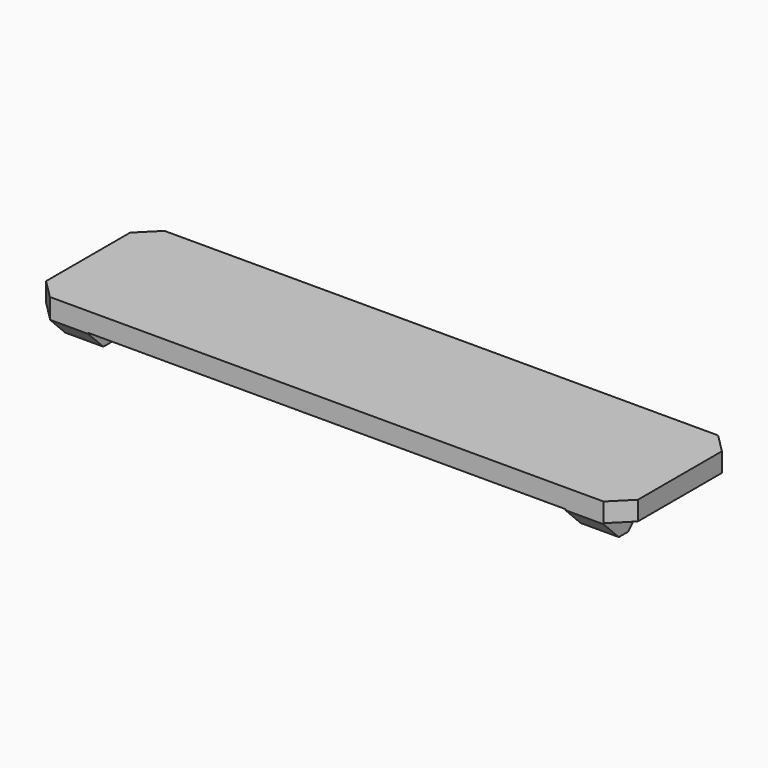
from build123d import *

# Parameters (mm, degrees)
F0_W     = 62
F0_H     = 15
F1_DEPTH = 2
F2_W     = 4
F2_H     = 3
F3_DEPTH = 2.1
F4_SIZE  = 2
F5_DEPTH = 1
F7_DEPTH = 70
F10_SIZE = 0.8


with BuildPart() as f1:
    # F0 (on Top) → F1 (new body)
    with BuildSketch(Plane.XY):
        Rectangle(F0_W, F0_H)
    extrude(amount=F1_DEPTH)

    # F2 (on face) → F3 (join)
    with BuildSketch(Plane(origin=(0, 0, 0), x_dir=(1, 0, 0), z_dir=(0, 0, -1))):
        with Locations((-27, 6)):
            Rectangle(F2_W, F2_H)
        with Locations((-21, -6)):
            Rectangle(F2_W, F2_H)
        with Locations((21, -6)):
            Rectangle(F2_W, F2_H)
        with Locations((27, 6)):
            Rectangle(F2_W, F2_H)
    extrude(amount=F3_DEPTH)

    # F4
    f4_edges = [f1.edges().sort_by_distance(p)[0] for p in [
        (-31, -7.5, 1),
        (-31, 7.5, 1),
        (-21, 7.5, -2.1),
        (-27, -7.5, -2.1),
        (31, -7.5, 1),
        (27, -7.5, -2.1),
        (31, 7.5, 1),
        (21, 7.5, -2.1),
    ]]
    chamfer(f4_edges, length=F4_SIZE)

    # F5 (add, symmetric): faces of the model
    f5_faces = [f1.faces().sort_by_distance(p)[0] for p in [
        (-27, -4.5, -1.05),
        (27, -4.5, -1.05),
        (21, 4.5, -1.05),
        (-21, 4.5, -1.05),
    ]]
    extrude(f5_faces, amount=F5_DEPTH, both=True, dir=(0, 1, 0))


with BuildPart() as f7:
    # F6 (on face) → F7 (new body)
    with BuildSketch(Plane(origin=(-29, 0, 0), x_dir=(0, -1, 0), z_dir=(-1, 0, 0))):
        Polygon((4.5, 0), (3.5, 0), (3.5, -1.1), (4.5, -0.8), align=None)
    extrude(amount=-F7_DEPTH)


with BuildPart() as f8_1:
    # F8: instance of F7
    add(f7.part.mirror(Plane.XZ))


with BuildPart() as f1_1:
    add(f1.part)

    # F9: cut F7, F8_1
    add(f7.part, mode=Mode.SUBTRACT)
    add(f8_1.part, mode=Mode.SUBTRACT)

    # F10
    f10_edges = [f1_1.edges().sort_by_distance(p)[0] for p in [
        (-27, -3.5, -2.1),
        (27, -3.5, -2.1),
        (21, 3.5, -2.1),
        (-21, 3.5, -2.1),
    ]]
    chamfer(f10_edges, length=F10_SIZE)


solid = f1_1.part
